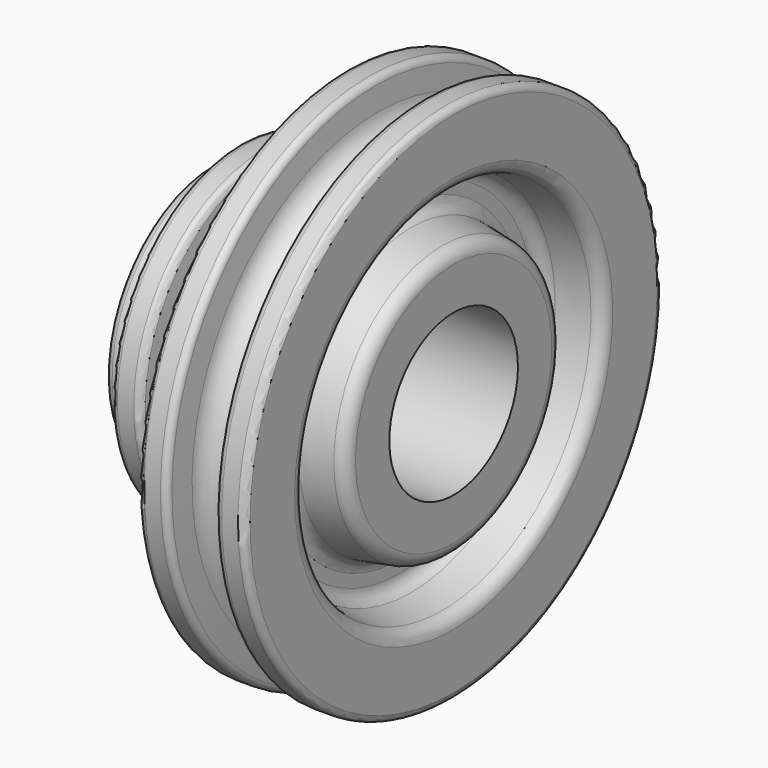
from build123d import *


with BuildPart() as f1:
    # F0 (on Front) → F1 (revolve)
    with BuildSketch(Plane.XZ):
        with BuildLine():
            Line((-2, 6), (0, 6))
            Line((0, 6), (16, 6))
            Line((16, 6), (16, 9.1609))
            ThreePointArc((16, 9.1609), (15.766044, 9.803688), (15.173648, 10.145708))
            Line((15.173648, 10.145708), (12.826352, 10.5596))
            ThreePointArc((12.826352, 10.5596), (12.233956, 10.90162), (12, 11.544408))
            Line((12, 11.544408), (12, 12.455592))
            ThreePointArc((12, 12.455592), (12.233956, 13.09838), (12.826352, 13.4404))
            Line((12.826352, 13.4404), (15.173648, 13.854292))
            ThreePointArc((15.173648, 13.854292), (15.766044, 14.196312), (16, 14.8391))
            Line((16, 14.8391), (16, 19))
            ThreePointArc((16, 19), (15.853553, 19.353553), (15.5, 19.5))
            Line((15.5, 19.5), (14.289446, 19.5))
            ThreePointArc((14.289446, 19.5), (13.951651, 19.368639), (13.791348, 19.043578))
            Line((13.791348, 19.043578), (13.643721, 17.356193))
            ThreePointArc((13.643721, 17.356193), (12, 15.85), (10.356279, 17.356193))
            Line((10.356279, 17.356193), (10.208652, 19.043578))
            ThreePointArc((10.208652, 19.043578), (10.048349, 19.368639), (9.710554, 19.5))
            Line((9.710554, 19.5), (8.5, 19.5))
            ThreePointArc((8.5, 19.5), (8.146447, 19.353553), (8, 19))
            Line((8, 19), (8, 12.5))
            ThreePointArc((8, 12.5), (7.853553, 12.146447), (7.5, 12))
            Line((7.5, 12), (6.289446, 12))
            ThreePointArc((6.289446, 12), (5.951651, 11.868639), (5.791348, 11.543578))
            Line((5.791348, 11.543578), (5.643721, 9.856193))
            ThreePointArc((5.643721, 9.856193), (4, 8.35), (2.356279, 9.856193))
            Line((2.356279, 9.856193), (2.208652, 11.543578))
            ThreePointArc((2.208652, 11.543578), (2.048349, 11.868639), (1.710554, 12))
            Line((1.710554, 12), (0.5, 12))
            ThreePointArc((0.5, 12), (0.146447, 11.853553), (0, 11.5))
            Line((0, 11.5), (0, 10.5))
            ThreePointArc((0, 10.5), (-0.146447, 10.146447), (-0.5, 10))
            Line((-0.5, 10), (-1.5, 10))
            ThreePointArc((-1.5, 10), (-1.853553, 9.853553), (-2, 9.5))
            Line((-2, 9.5), (-2, 6))
        make_face()
    revolve(axis=Axis((31.941173, 0, 0), (1, 0, 0)))


solid = f1.part
